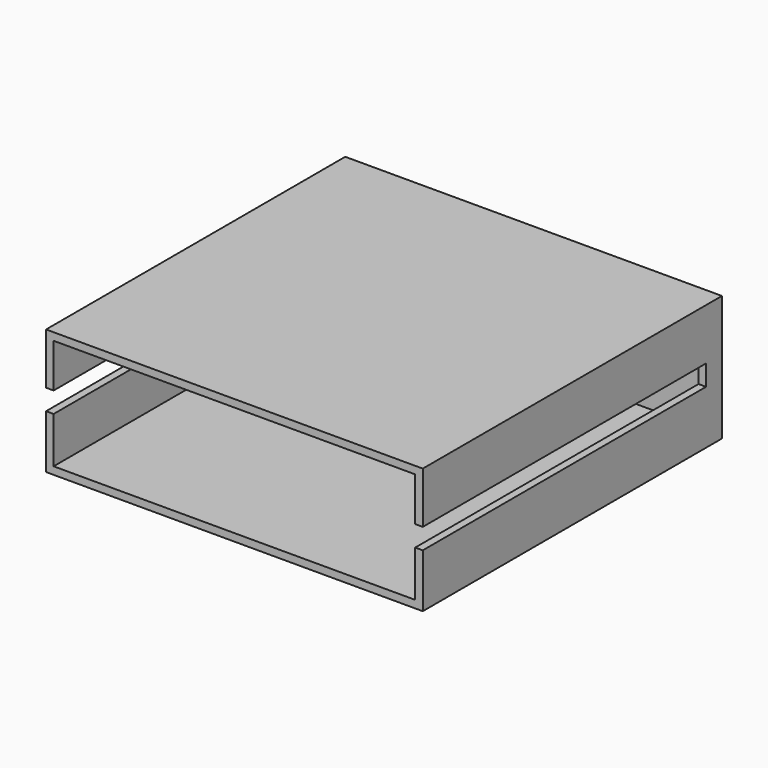
from build123d import *

# Parameters (mm, degrees)
F0_W          = 150
F0_H          = 50
F1_DEPTH      = 148.9
F2_T          = -3
F3_W          = 149.098023
F3_H          = 8.212631
F4_DEPTH      = 98.5
F4_DEPTH_BACK = 98.4


with BuildPart() as f1:
    # F0 (on Front) → F1 (new body)
    with BuildSketch(Plane.XZ):
        Rectangle(F0_W, F0_H)
    extrude(amount=F1_DEPTH)

    # F2
    f2_openings = [f1.faces().sort_by_distance(p)[0] for p in [
        (0, -148.9, 0),
    ]]
    offset(amount=F2_T, openings=f2_openings)

    # F3 (on Right) → F4 (cut, two sides)
    with BuildSketch(Plane.YZ) as f4_sk:
        with Locations((-82.449026, 0.456257)):
            Rectangle(F3_W, F3_H)
    extrude(amount=F4_DEPTH, mode=Mode.SUBTRACT)
    extrude(f4_sk.sketch, amount=-F4_DEPTH_BACK, mode=Mode.SUBTRACT)


solid = f1.part
